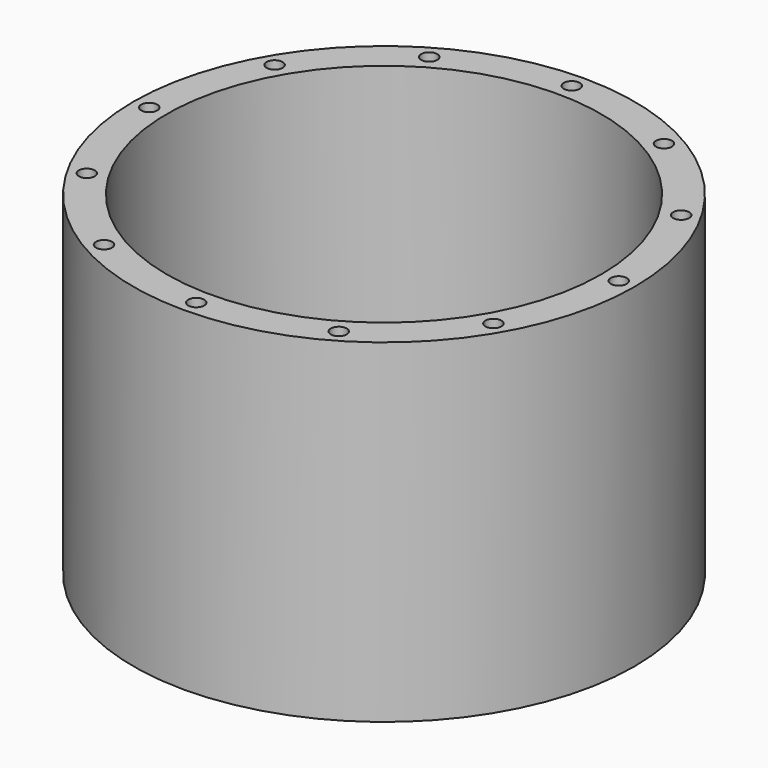
from build123d import *

# Parameters (mm, degrees)
F0_R     = 190.5
F0_R_2   = 165.1
F1_DEPTH = 254
F2_R     = 6.096
F3_DEPTH = 12.7


with BuildPart() as f1:
    # F0 (on Top) → F1 (new body)
    with BuildSketch(Plane.XY):
        Circle(F0_R)
        Circle(F0_R_2, mode=Mode.SUBTRACT)
    extrude(amount=-F1_DEPTH)

    # F2 (on Top) → F3 (cut)
    with BuildSketch(Plane.XY):
        with Locations((0, 178.42484)):
            Circle(F2_R)
        with Locations((-89.21242, 154.5204441062)):
            Circle(F2_R)
        with Locations((-154.5204441062, 89.21242)):
            Circle(F2_R)
        with Locations((-178.42484, 0)):
            Circle(F2_R)
        with Locations((-154.5204441062, -89.21242)):
            Circle(F2_R)
        with Locations((-89.21242, -154.5204441062)):
            Circle(F2_R)
        with Locations((0, -178.42484)):
            Circle(F2_R)
        with Locations((89.21242, -154.5204441062)):
            Circle(F2_R)
        with Locations((154.5204441062, -89.21242)):
            Circle(F2_R)
        with Locations((178.42484, 0)):
            Circle(F2_R)
        with Locations((154.5204441062, 89.21242)):
            Circle(F2_R)
        with Locations((89.21242, 154.5204441062)):
            Circle(F2_R)
    extrude(amount=-F3_DEPTH, mode=Mode.SUBTRACT)


solid = f1.part
